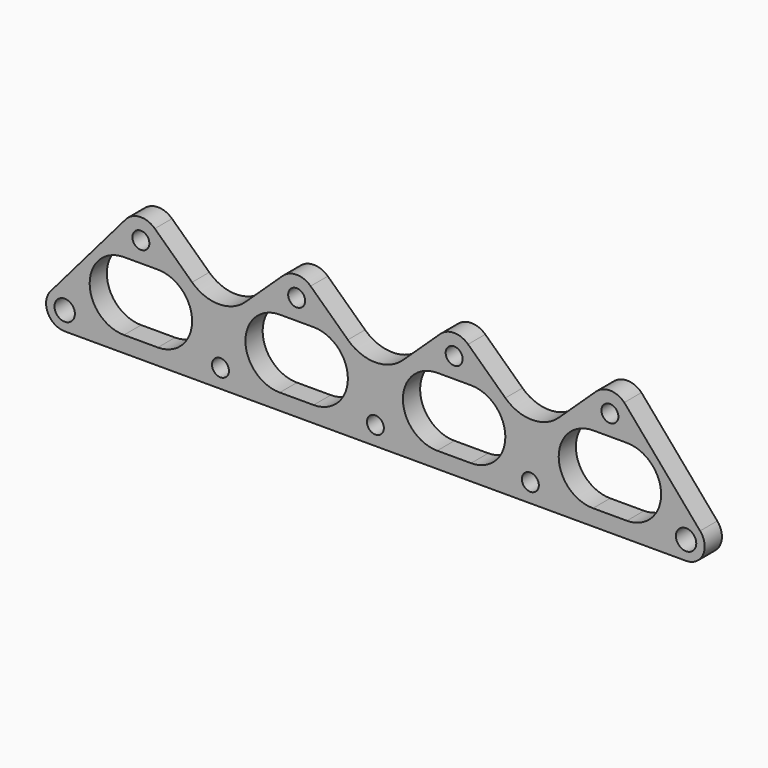
from build123d import *

# Parameters (mm, degrees)
F0_R     = 6.01
F0_R_2   = 5.01
F1_DEPTH = 12.7


with BuildPart() as f1:
    # F0 (on Front) → F1 (new body)
    with BuildSketch(Plane.XZ):
        with BuildLine():
            Line((183.5, 0), (367, 0))
            ThreePointArc((367, 0), (377.016632, 6.473352), (375.248216, 18.267838))
            Line((375.248216, 18.267838), (330.485281, 70.475281))
            ThreePointArc((330.485281, 70.475281), (322.178418, 73.988674), (313.770763, 70.723823))
            Line((313.770763, 70.723823), (291.760312, 49.984999))
            ThreePointArc((291.760312, 49.984999), (276.005306, 43.731851), (260.2503, 49.984999))
            Line((260.2503, 49.984999), (238.227135, 70.725803))
            ThreePointArc((238.227135, 70.725803), (230, 73.99), (221.772865, 70.725803))
            Line((221.772865, 70.725803), (199.755006, 49.99))
            ThreePointArc((199.755006, 49.99), (183.5, 43.540666), (167.244994, 49.99))
            Line((167.244994, 49.99), (145.227135, 70.725803))
            ThreePointArc((145.227135, 70.725803), (137, 73.99), (128.772865, 70.725803))
            Line((128.772865, 70.725803), (106.7497, 49.984999))
            ThreePointArc((106.7497, 49.984999), (90.994694, 43.731851), (75.239688, 49.984999))
            Line((75.239688, 49.984999), (53.229237, 70.723823))
            ThreePointArc((53.229237, 70.723823), (44.821582, 73.988674), (36.514719, 70.475281))
            Line((36.514719, 70.475281), (-8.248216, 18.267838))
            ThreePointArc((-8.248216, 18.267838), (-10.016632, 6.473352), (0, 0))
            Line((0, 0), (183.5, 0))
        make_face()
        with Locations((0.00881, 10.999996)):
            Circle(F0_R, mode=Mode.SUBTRACT)
        with Locations((92, 11)):
            Circle(F0_R_2, mode=Mode.SUBTRACT)
        with BuildLine():
            ThreePointArc((183.5, 16), (188.5, 11), (183.5, 6))
            ThreePointArc((183.5, 6), (178.5, 11), (183.5, 16))
        make_face(mode=Mode.SUBTRACT)
        with BuildLine():
            Line((34.994694, 49.984999), (54.994694, 49.984999))
            ThreePointArc((54.994694, 49.984999), (75.239694, 29.739999), (54.994694, 9.494999))
            Line((54.994694, 9.494999), (34.994694, 9.494999))
            ThreePointArc((34.994694, 9.494999), (14.749694, 29.739999), (34.994694, 49.984999))
        make_face(mode=Mode.SUBTRACT)
        with BuildLine():
            ThreePointArc((147, 49.99), (167.245, 29.745), (147, 9.5))
            Line((147, 9.5), (127, 9.5))
            ThreePointArc((127, 9.5), (106.755, 29.745), (127, 49.99))
            Line((127, 49.99), (147, 49.99))
        make_face(mode=Mode.SUBTRACT)
        with Locations((275, 11)):
            Circle(F0_R_2, mode=Mode.SUBTRACT)
        with Locations((366.99119, 10.999996)):
            Circle(F0_R, mode=Mode.SUBTRACT)
        with BuildLine():
            Line((240, 9.5), (220, 9.5))
            ThreePointArc((220, 9.5), (199.755, 29.745), (220, 49.99))
            Line((220, 49.99), (240, 49.99))
            ThreePointArc((240, 49.99), (260.245, 29.745), (240, 9.5))
        make_face(mode=Mode.SUBTRACT)
        with BuildLine():
            ThreePointArc((332.005306, 49.984999), (352.250306, 29.739999), (332.005306, 9.494999))
            Line((332.005306, 9.494999), (312.005306, 9.494999))
            ThreePointArc((312.005306, 9.494999), (291.760306, 29.739999), (312.005306, 49.984999))
            Line((312.005306, 49.984999), (332.005306, 49.984999))
        make_face(mode=Mode.SUBTRACT)
        with Locations((45, 61.99)):
            Circle(F0_R_2, mode=Mode.SUBTRACT)
        with Locations((137, 61.99)):
            Circle(F0_R_2, mode=Mode.SUBTRACT)
        with Locations((230, 61.99)):
            Circle(F0_R_2, mode=Mode.SUBTRACT)
        with Locations((322, 61.99)):
            Circle(F0_R_2, mode=Mode.SUBTRACT)
    extrude(amount=F1_DEPTH)


solid = f1.part
